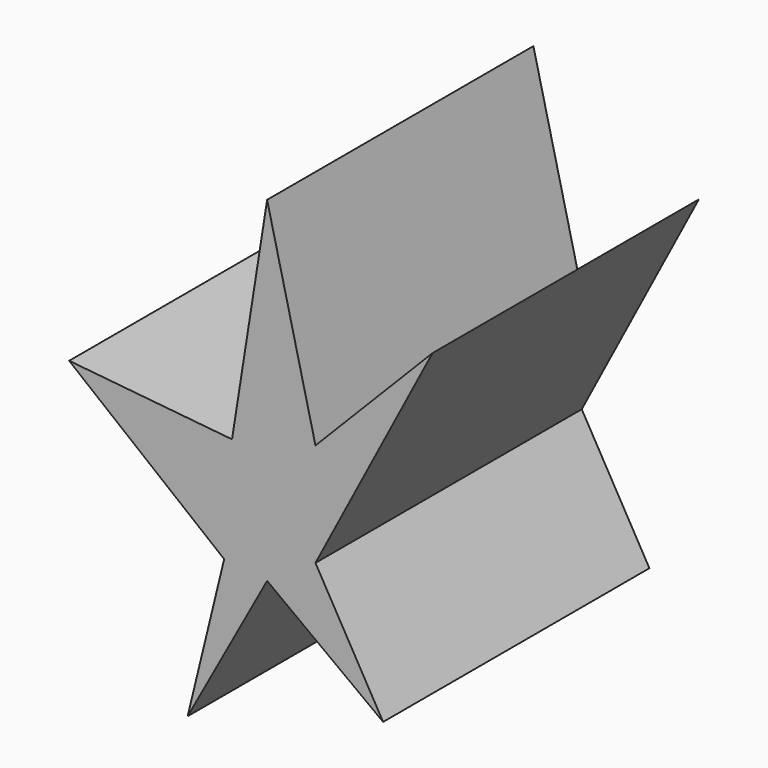
from build123d import *

# Parameters (mm, degrees)
F1_DEPTH = 50.8


with BuildPart() as f1:
    # F0 (on Front) → F1 (new body)
    with BuildSketch(Plane.XZ):
        Polygon((0, 15.777918), (-7.376901, 46.394095), (-12.732972, 12.466163), (-37.58885, 14.94082), (-13.934148, -4.022439), (-19.507803, -26.942465), (-7.376901, -4.803142), (10.327662, -18.001853), (0, 0), (17.868496, 34.010075), align=None)
        Polygon((0, 15.777918), (-7.376901, 46.394095), (-12.732972, 12.466163), (-37.58885, 14.94082), (-13.934148, -4.022439), (-19.507803, -26.942465), (-7.376901, -4.803142), (10.327662, -18.001853), (0, 0), (17.868496, 34.010075), align=None)
    extrude(amount=F1_DEPTH)


solid = f1.part
